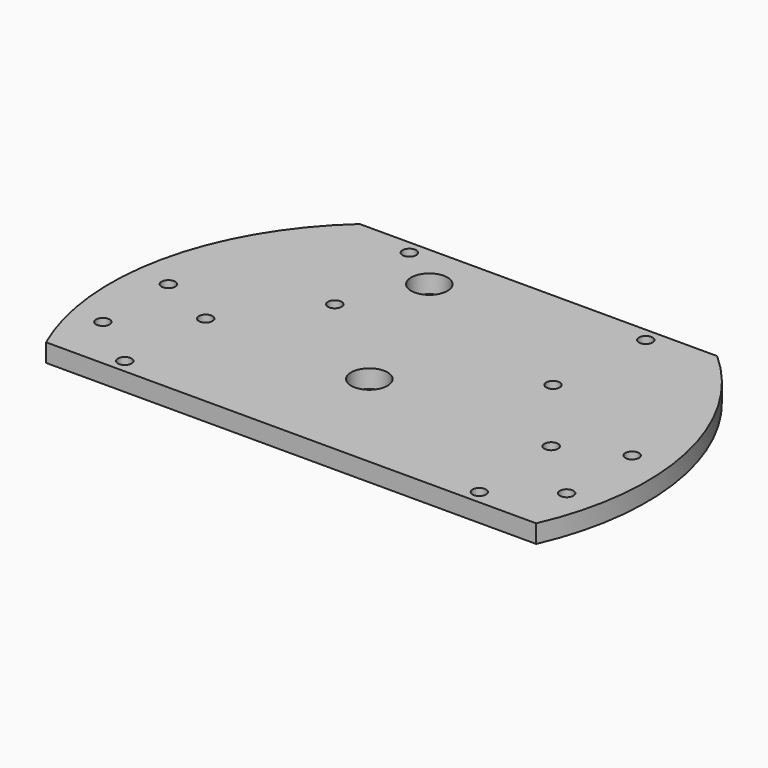
from build123d import *

# Parameters (mm, degrees)
CYLINDER1500_R     = 1.5
CYLINDER1500_DEPTH = 100
CYLINDER1499_R     = 1.5
CYLINDER1499_DEPTH = 100
CYLINDER1494_R     = 1.5
CYLINDER1494_DEPTH = 32
CYLINDER1493_R     = 1.5
CYLINDER1493_DEPTH = 32
BOX518_W           = 200
BOX518_H           = 100
BOX518_DEPTH       = 100
BOX516_W           = 200
BOX516_H           = 100
BOX516_DEPTH       = 100
CYLINDER1467_R     = 4
CYLINDER1467_DEPTH = 100
CYLINDER1468_R     = 4
CYLINDER1468_DEPTH = 100
CYLINDER1469_R     = 4
CYLINDER1469_DEPTH = 100
CYLINDER1465_R     = 4
CYLINDER1465_DEPTH = 100
CYLINDER1470_R     = 4
CYLINDER1470_DEPTH = 100
CYLINDER1466_R     = 4
CYLINDER1466_DEPTH = 100
CYLINDER1442_R     = 1.5
CYLINDER1442_DEPTH = 100
CYLINDER1443_R     = 1.5
CYLINDER1443_DEPTH = 100
CYLINDER1444_R     = 1.5
CYLINDER1444_DEPTH = 100
CYLINDER1445_R     = 1.5
CYLINDER1445_DEPTH = 100
CYLINDER1446_R     = 1.5
CYLINDER1446_DEPTH = 100
CYLINDER1447_R     = 1.5
CYLINDER1447_DEPTH = 100
CYLINDER1448_R     = 1.5
CYLINDER1448_DEPTH = 100
CYLINDER1441_R     = 1.5
CYLINDER1441_DEPTH = 100
CYLINDER1440_R     = 59
CYLINDER1440_DEPTH = 4


with BuildPart() as obj1:
    # Cylinder1500 → Cylinder1500 (new body)
    with BuildSketch(Plane(origin=(14, 0, -60), x_dir=(1, 0, 0), z_dir=(0, 0, 1))):
        Circle(CYLINDER1500_R)
    extrude(amount=CYLINDER1500_DEPTH)


with BuildPart() as obj2:
    # Cylinder1499 → Cylinder1499 (new body)
    with BuildSketch(Plane(origin=(90, 0, -60), x_dir=(1, 0, 0), z_dir=(0, 0, 1))):
        Circle(CYLINDER1499_R)
    extrude(amount=CYLINDER1499_DEPTH)

    # Compound907: union obj1
    add(obj1.part)


with BuildPart() as obj3:
    # Cylinder1494 → Cylinder1494 (new body)
    with BuildSketch(Plane(origin=(78, 41, -42), x_dir=(1, 0, 0), z_dir=(0, 0, 1))):
        Circle(CYLINDER1494_R)
    extrude(amount=CYLINDER1494_DEPTH)


with BuildPart() as compound902:
    # Cylinder1493 → Cylinder1493 (new body)
    with BuildSketch(Plane(origin=(26, 41, -42), x_dir=(1, 0, 0), z_dir=(0, 0, 1))):
        Circle(CYLINDER1493_R)
    extrude(amount=CYLINDER1493_DEPTH)

    # Compound902: union obj3
    add(obj3.part)


with BuildPart() as krychle518:
    # Box518 → Box518 (new body)
    with BuildSketch(Plane(origin=(-60, 44, -90), x_dir=(1, 0, 0), z_dir=(0, 0, 1))):
        with Locations((100, 50)):
            Rectangle(BOX518_W, BOX518_H)
    extrude(amount=BOX518_DEPTH)


with BuildPart() as krychle516:
    # Box516 → Box516 (new body)
    with BuildSketch(Plane(origin=(-60, -124, -90), x_dir=(1, 0, 0), z_dir=(0, 0, 1))):
        with Locations((100, 50)):
            Rectangle(BOX516_W, BOX516_H)
    extrude(amount=BOX516_DEPTH)


with BuildPart() as obj4:
    # Cylinder1467 → Cylinder1467 (new body)
    with BuildSketch(Plane(origin=(-36, 34, -90), x_dir=(1, 0, 0), z_dir=(0, 0, 1))):
        Circle(CYLINDER1467_R)
    extrude(amount=CYLINDER1467_DEPTH)


with BuildPart() as obj5:
    # Cylinder1468 → Cylinder1468 (new body)
    with BuildSketch(Plane(origin=(-36, -34, -90), x_dir=(1, 0, 0), z_dir=(0, 0, 1))):
        Circle(CYLINDER1468_R)
    extrude(amount=CYLINDER1468_DEPTH)


with BuildPart() as obj6:
    # Cylinder1469 → Cylinder1469 (new body)
    with BuildSketch(Plane(origin=(50, 0, -90), x_dir=(1, 0, 0), z_dir=(0, 0, 1))):
        Circle(CYLINDER1469_R)
    extrude(amount=CYLINDER1469_DEPTH)


with BuildPart() as obj7:
    # Cylinder1465 → Cylinder1465 (new body)
    with BuildSketch(Plane(origin=(36, 34, -90), x_dir=(1, 0, 0), z_dir=(0, 0, 1))):
        Circle(CYLINDER1465_R)
    extrude(amount=CYLINDER1465_DEPTH)


with BuildPart() as obj8:
    # Cylinder1470 → Cylinder1470 (new body)
    with BuildSketch(Plane(origin=(36, -34, -90), x_dir=(1, 0, 0), z_dir=(0, 0, 1))):
        Circle(CYLINDER1470_R)
    extrude(amount=CYLINDER1470_DEPTH)


with BuildPart() as obj9:
    # Cylinder1466 → Cylinder1466 (new body)
    with BuildSketch(Plane(origin=(-50, 0, -90), x_dir=(1, 0, 0), z_dir=(0, 0, 1))):
        Circle(CYLINDER1466_R)
    extrude(amount=CYLINDER1466_DEPTH)

    # Compound897: union obj4, obj5, obj6, obj7, obj8
    add(obj4.part)
    add(obj5.part)
    add(obj6.part)
    add(obj7.part)
    add(obj8.part)


with BuildPart() as obj10:
    # Cylinder1442 → Cylinder1442 (new body)
    with BuildSketch(Plane(origin=(103, 6, -60), x_dir=(1, 0, 0), z_dir=(0, 0, 1))):
        Circle(CYLINDER1442_R)
    extrude(amount=CYLINDER1442_DEPTH)


with BuildPart() as obj11:
    # Cylinder1443 → Cylinder1443 (new body)
    with BuildSketch(Plane(origin=(76, 18, -60), x_dir=(1, 0, 0), z_dir=(0, 0, 1))):
        Circle(CYLINDER1443_R)
    extrude(amount=CYLINDER1443_DEPTH)


with BuildPart() as obj12:
    # Cylinder1444 → Cylinder1444 (new body)
    with BuildSketch(Plane(origin=(91, -21, -60), x_dir=(1, 0, 0), z_dir=(0, 0, 1))):
        Circle(CYLINDER1444_R)
    extrude(amount=CYLINDER1444_DEPTH)


with BuildPart() as obj13:
    # Cylinder1445 → Cylinder1445 (new body)
    with BuildSketch(Plane(origin=(13, -21, -60), x_dir=(1, 0, 0), z_dir=(0, 0, 1))):
        Circle(CYLINDER1445_R)
    extrude(amount=CYLINDER1445_DEPTH)


with BuildPart() as obj14:
    # Cylinder1446 → Cylinder1446 (new body)
    with BuildSketch(Plane(origin=(28, 18, -60), x_dir=(1, 0, 0), z_dir=(0, 0, 1))):
        Circle(CYLINDER1446_R)
    extrude(amount=CYLINDER1446_DEPTH)


with BuildPart() as obj15:
    # Cylinder1447 → Cylinder1447 (new body)
    with BuildSketch(Plane(origin=(1, -12, -60), x_dir=(1, 0, 0), z_dir=(0, 0, 1))):
        Circle(CYLINDER1447_R)
    extrude(amount=CYLINDER1447_DEPTH)


with BuildPart() as obj16:
    # Cylinder1448 → Cylinder1448 (new body)
    with BuildSketch(Plane(origin=(1, 6, -60), x_dir=(1, 0, 0), z_dir=(0, 0, 1))):
        Circle(CYLINDER1448_R)
    extrude(amount=CYLINDER1448_DEPTH)


with BuildPart() as obj17:
    # Cylinder1441 → Cylinder1441 (new body)
    with BuildSketch(Plane(origin=(103, -12, -60), x_dir=(1, 0, 0), z_dir=(0, 0, 1))):
        Circle(CYLINDER1441_R)
    extrude(amount=CYLINDER1441_DEPTH)

    # Compound894: union obj10, obj11, obj12, obj13, obj14, obj15, obj16
    add(obj10.part)
    add(obj11.part)
    add(obj12.part)
    add(obj13.part)
    add(obj14.part)
    add(obj15.part)
    add(obj16.part)


with BuildPart() as cut539:
    # Cylinder1440 → Cylinder1440 (new body)
    with BuildSketch(Plane(origin=(52, 0, -26), x_dir=(1, 0, 0), z_dir=(0, 0, 1))):
        Circle(CYLINDER1440_R)
    extrude(amount=CYLINDER1440_DEPTH)

    # Cut526: cut obj17
    add(obj17.part, mode=Mode.SUBTRACT)

    # Cut527: cut obj9
    add(obj9.part, mode=Mode.SUBTRACT)

    # Cut533: cut Krychle516
    add(krychle516.part, mode=Mode.SUBTRACT)

    # Cut535: cut Krychle518
    add(krychle518.part, mode=Mode.SUBTRACT)

    # Cut536: cut Compound902
    add(compound902.part, mode=Mode.SUBTRACT)

    # Cut539: cut obj2
    add(obj2.part, mode=Mode.SUBTRACT)


solid = cut539.part
